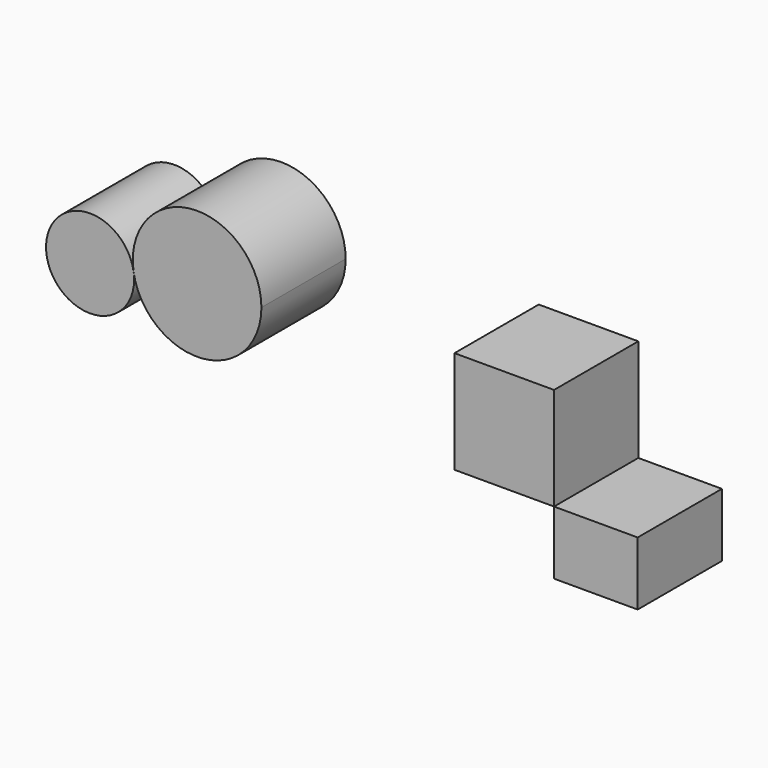
from build123d import *

# Parameters (mm, degrees)
F0_W     = 19.852486
F0_H     = 15.066933
F0_W_2   = 23.633929
F0_H_2   = 24.374241
F1_DEPTH = 25


with BuildPart() as f1:
    # F0 (on Front) → F1 (new body)
    with BuildSketch(Plane.XZ):
        with BuildLine():
            ThreePointArc((-51.357949, 36.050899), (-72.106568, 33.608335), (-51.230608, 34.424182))
            ThreePointArc((-51.230608, 34.424182), (-51.262492, 35.240029), (-51.357949, 36.050899))
        make_face()
        with BuildLine():
            ThreePointArc((-21.01425, 38.426233), (-37.470372, 53.644497), (-51.357949, 36.050899))
            ThreePointArc((-51.357949, 36.050899), (-35.087771, 23.207969), (-21.01425, 38.426233))
        make_face()
        with Locations((58.375785, 11.888516)):
            Rectangle(F0_W, F0_H)
        with Locations((36.632577, 31.609102)):
            Rectangle(F0_W_2, F0_H_2)
    extrude(amount=F1_DEPTH)


solid = f1.part
